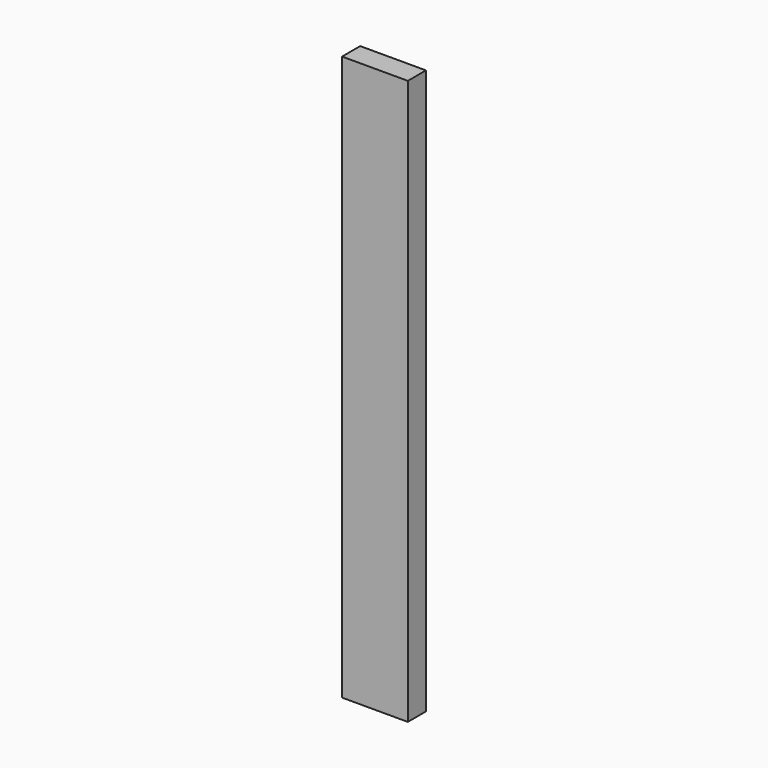
from build123d import *

# Parameters (mm, degrees)
F0_W     = 8.702979
F0_H     = 74.700572
F1_DEPTH = 3
F2_DEPTH = 3


with BuildPart() as f1:
    # F0 (on Front) → F1 (new body)
    with BuildSketch(Plane.XZ):
        with Locations((20.451998, 37.350286)):
            Rectangle(F0_W, F0_H)
    extrude(amount=F1_DEPTH)

    # F0 (on Front) → F2 (join)
    with BuildSketch(Plane.XZ):
        with Locations((20.451998, 37.350286)):
            Rectangle(F0_W, F0_H)
    extrude(amount=F2_DEPTH)


solid = f1.part
